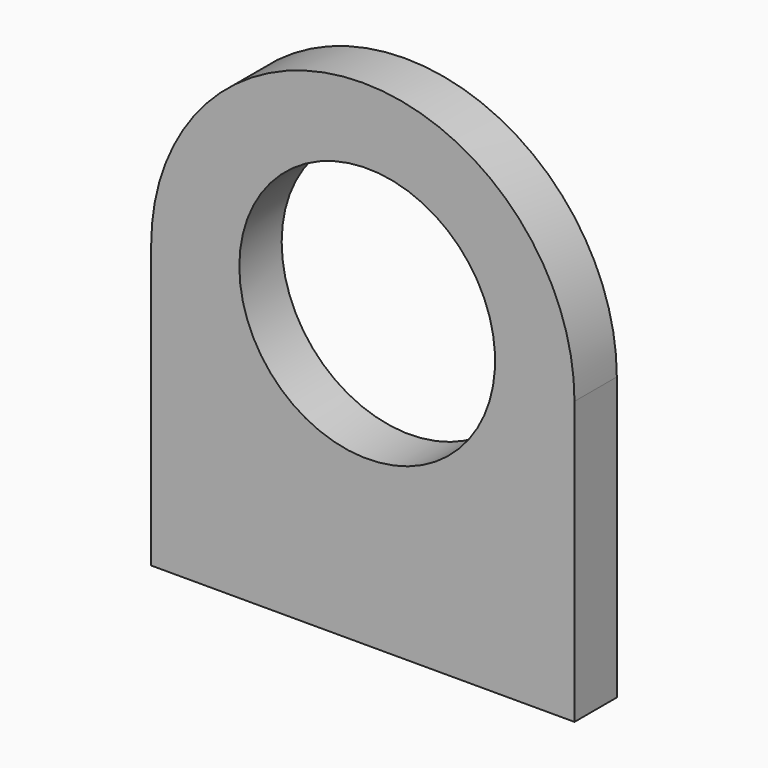
from build123d import *

# Parameters (mm, degrees)
F0_W     = 152.4
F0_H     = 101.6
F2_DEPTH = 9.525
F4_D     = 92.075


with BuildPart() as f2:
    # F0 (on Front) → F2 (new body, symmetric)
    with BuildSketch(Plane.XZ):
        with Locations((-43.9761151315, 50.8)):
            Rectangle(F0_W, F0_H)
        with BuildLine():
            Line((-120.1761151315, 101.6), (32.2238848685, 101.6))
            ThreePointArc((32.2238848685, 101.6), (-43.9761151315, 177.8), (-120.1761151315, 101.6))
        make_face()
    extrude(amount=F2_DEPTH, both=True)

    # F4 (through all)
    with Locations(Plane.XZ.offset(25.4)):
        with Locations((-42.4015931785, 105.1330193877)):
            Hole(F4_D / 2)


solid = f2.part
